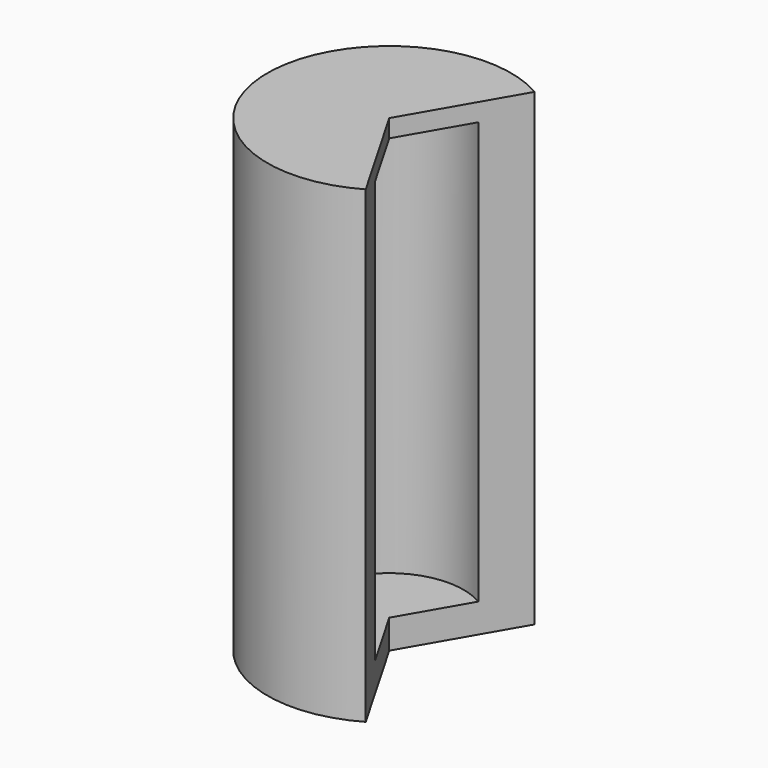
from build123d import *

# Parameters (mm, degrees)
F0_W     = 33.02
F0_H     = 127
F1_ANGLE = 240
F2_W     = 20.32
F2_H     = 114.3


with BuildPart() as f1:
    # F0 (on Front) → F1 (revolve, symmetric)
    with BuildSketch(Plane.XZ) as f1_sk:
        with Locations((-16.722997, -11.941442)):
            Rectangle(F0_W, F0_H)
    revolve(axis=Axis((-0.212997, 0, -11.941442), (0, 0, -1)), revolution_arc=F1_ANGLE / 2)
    revolve(f1_sk.sketch, axis=Axis((-0.212997, 0, -11.941442), (0, 0, 1)), revolution_arc=F1_ANGLE / 2)

    # F2 (on Front) → F3 (revolve, cut)
    with BuildSketch(Plane.XZ):
        with Locations((-10.534671, -10.423937)):
            Rectangle(F2_W, F2_H)
    revolve(axis=Axis((-0.374671, 0, -10.423937), (0, 0, -1)), mode=Mode.SUBTRACT)


solid = f1.part
